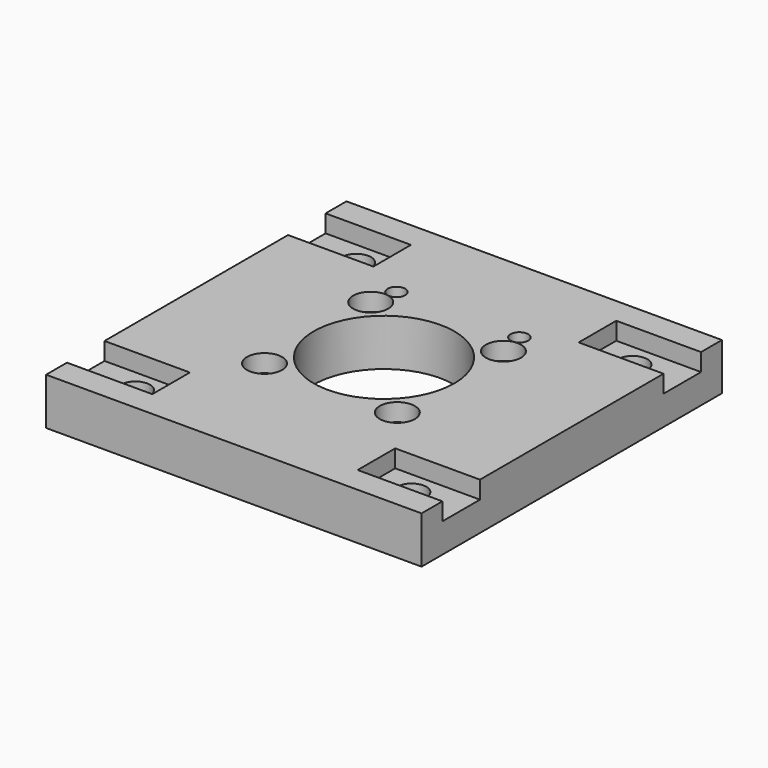
from build123d import *

# Parameters (mm, degrees)
CYLINDER776_R                = 1.5
CYLINDER776_DEPTH            = 20
CYLINDER774_R                = 1.5
CYLINDER774_DEPTH            = 20
COMPOUND536_ROLL_ANGLE       = 90
COMPOUND536_PLACEMENT_ANGLE  = 90
BOX640_W                     = 16
BOX640_H                     = 8
BOX640_DEPTH                 = 3
BOX639_W                     = 16
BOX639_H                     = 8
BOX639_DEPTH                 = 3
BOX636_W                     = 16
BOX636_H                     = 8
BOX636_DEPTH                 = 3
BOX637_W                     = 16
BOX637_H                     = 8
BOX637_DEPTH                 = 3
CYLINDER1600_R               = 12
CYLINDER1600_DEPTH           = 20
CYLINDER1598_R               = 5
CYLINDER1598_DEPTH           = 4
CYLINDER1605_R               = 5
CYLINDER1605_DEPTH           = 4
CYLINDER1612_R               = 5
CYLINDER1612_DEPTH           = 4
CYLINDER1610_R               = 5
CYLINDER1610_DEPTH           = 4
CYLINDER1604_R               = 2.5
CYLINDER1604_DEPTH           = 20
CYLINDER1608_R               = 2.5
CYLINDER1608_DEPTH           = 20
CYLINDER1607_R               = 2.5
CYLINDER1607_DEPTH           = 20
CYLINDER1602_R               = 2.5
CYLINDER1602_DEPTH           = 20
CYLINDER1609_R               = 3
CYLINDER1609_DEPTH           = 3
CYLINDER1609_PLACEMENT_ANGLE = 22.5
CYLINDER1601_R               = 3
CYLINDER1601_DEPTH           = 3
CYLINDER1601_PLACEMENT_ANGLE = 67.5
CYLINDER1606_R               = 3
CYLINDER1606_DEPTH           = 3
CYLINDER1606_PLACEMENT_ANGLE = 202.5
CYLINDER1611_R               = 3
CYLINDER1611_DEPTH           = 3
CYLINDER1611_PLACEMENT_ANGLE = 112.5
COMPOUND801_PLACEMENT_ANGLE  = 45
CYLINDER1603_R               = 1.5
CYLINDER1603_DEPTH           = 30
CYLINDER1603_PLACEMENT_ANGLE = 22.5
CYLINDER1613_R               = 1.5
CYLINDER1613_DEPTH           = 30
CYLINDER1613_PLACEMENT_ANGLE = 67.5
CYLINDER1614_R               = 1.5
CYLINDER1614_DEPTH           = 30
CYLINDER1614_PLACEMENT_ANGLE = 202.5
CYLINDER1599_R               = 1.5
CYLINDER1599_DEPTH           = 30
CYLINDER1599_PLACEMENT_ANGLE = 112.5
COMPOUND802_PLACEMENT_ANGLE  = 45
BOX638_W                     = 64
BOX638_H                     = 64
BOX638_DEPTH                 = 8


with BuildPart() as obj1:
    # Cylinder776 → Cylinder776 (new body)
    with BuildSketch(Plane(origin=(15.75, 114, 59.48), x_dir=(-1, 0, 0), z_dir=(0, 1, 0))):
        Circle(CYLINDER776_R)
    extrude(amount=CYLINDER776_DEPTH)


with BuildPart() as compound536:
    # Cylinder774 → Cylinder774 (new body)
    with BuildSketch(Plane(origin=(15.75, 114, 38.52), x_dir=(-1, 0, 0), z_dir=(0, 1, 0))):
        Circle(CYLINDER774_R)
    extrude(amount=CYLINDER774_DEPTH)

    # Compound536: union obj1
    add(obj1.part)


with BuildPart() as compound536_1:
    # Compound536 roll: moved
    add(compound536.part.rotate(Axis((0, 0, 0), (1, 0, 0)), COMPOUND536_ROLL_ANGLE))


with BuildPart() as compound536_2:
    # Compound536 placement: moved
    add(compound536_1.part.moved(Location((-49, 0, -96))).rotate(Axis((-49, 0, -96), (0, 0, 1)), COMPOUND536_PLACEMENT_ANGLE))


with BuildPart() as krychle640:
    # Box640 → Box640 (new body)
    with BuildSketch(Plane(origin=(17.55, -27.55, 31), x_dir=(1, 0, 0), z_dir=(0, 0, 1))):
        with Locations((8, 4)):
            Rectangle(BOX640_W, BOX640_H)
    extrude(amount=BOX640_DEPTH)


with BuildPart() as krychle639:
    # Box639 → Box639 (new body)
    with BuildSketch(Plane(origin=(-33.45, 19.55, 31), x_dir=(1, 0, 0), z_dir=(0, 0, 1))):
        with Locations((8, 4)):
            Rectangle(BOX639_W, BOX639_H)
    extrude(amount=BOX639_DEPTH)


with BuildPart() as krychle636:
    # Box636 → Box636 (new body)
    with BuildSketch(Plane(origin=(-33.45, -27.55, 31), x_dir=(1, 0, 0), z_dir=(0, 0, 1))):
        with Locations((8, 4)):
            Rectangle(BOX636_W, BOX636_H)
    extrude(amount=BOX636_DEPTH)


with BuildPart() as compound800:
    # Box637 → Box637 (new body)
    with BuildSketch(Plane(origin=(17.55, 19.55, 31), x_dir=(1, 0, 0), z_dir=(0, 0, 1))):
        with Locations((8, 4)):
            Rectangle(BOX637_W, BOX637_H)
    extrude(amount=BOX637_DEPTH)

    # Compound800: union Krychle640, Krychle639, Krychle636
    add(krychle640.part)
    add(krychle639.part)
    add(krychle636.part)


with BuildPart() as obj2:
    # Cylinder1600 → Cylinder1600 (new body)
    with BuildSketch(Plane.XY.offset(15)):
        Circle(CYLINDER1600_R)
    extrude(amount=CYLINDER1600_DEPTH)


with BuildPart() as obj3:
    # Cylinder1598 → Cylinder1598 (new body)
    with BuildSketch(Plane(origin=(23.55, 23.55, 26), x_dir=(1, 0, 0), z_dir=(0, 0, 1))):
        Circle(CYLINDER1598_R)
    extrude(amount=CYLINDER1598_DEPTH)


with BuildPart() as obj4:
    # Cylinder1605 → Cylinder1605 (new body)
    with BuildSketch(Plane(origin=(23.55, -23.55, 26), x_dir=(1, 0, 0), z_dir=(0, 0, 1))):
        Circle(CYLINDER1605_R)
    extrude(amount=CYLINDER1605_DEPTH)


with BuildPart() as obj5:
    # Cylinder1612 → Cylinder1612 (new body)
    with BuildSketch(Plane(origin=(-23.55, 23.55, 26), x_dir=(1, 0, 0), z_dir=(0, 0, 1))):
        Circle(CYLINDER1612_R)
    extrude(amount=CYLINDER1612_DEPTH)


with BuildPart() as compound799:
    # Cylinder1610 → Cylinder1610 (new body)
    with BuildSketch(Plane(origin=(-23.55, -23.55, 26), x_dir=(1, 0, 0), z_dir=(0, 0, 1))):
        Circle(CYLINDER1610_R)
    extrude(amount=CYLINDER1610_DEPTH)

    # Compound799: union obj3, obj4, obj5
    add(obj3.part)
    add(obj4.part)
    add(obj5.part)


with BuildPart() as compound799_1:
    # Compound799 placement: moved
    add(compound799.part.moved(Location((0, 0, -50))))


with BuildPart() as obj6:
    # Cylinder1604 → Cylinder1604 (new body)
    with BuildSketch(Plane(origin=(-23.55, 23.55, 20), x_dir=(1, 0, 0), z_dir=(0, 0, 1))):
        Circle(CYLINDER1604_R)
    extrude(amount=CYLINDER1604_DEPTH)


with BuildPart() as obj7:
    # Cylinder1608 → Cylinder1608 (new body)
    with BuildSketch(Plane(origin=(-23.55, -23.55, 20), x_dir=(1, 0, 0), z_dir=(0, 0, 1))):
        Circle(CYLINDER1608_R)
    extrude(amount=CYLINDER1608_DEPTH)


with BuildPart() as obj8:
    # Cylinder1607 → Cylinder1607 (new body)
    with BuildSketch(Plane(origin=(23.55, -23.55, 20), x_dir=(1, 0, 0), z_dir=(0, 0, 1))):
        Circle(CYLINDER1607_R)
    extrude(amount=CYLINDER1607_DEPTH)


with BuildPart() as compound798:
    # Cylinder1602 → Cylinder1602 (new body)
    with BuildSketch(Plane(origin=(23.55, 23.55, 20), x_dir=(1, 0, 0), z_dir=(0, 0, 1))):
        Circle(CYLINDER1602_R)
    extrude(amount=CYLINDER1602_DEPTH)

    # Compound798: union obj6, obj7, obj8
    add(obj6.part)
    add(obj7.part)
    add(obj8.part)


with BuildPart() as obj9:
    # Cylinder1609 → Cylinder1609 (new body)
    with BuildSketch(Plane.XY):
        Circle(CYLINDER1609_R)
    extrude(amount=CYLINDER1609_DEPTH)


with BuildPart() as obj9_1:
    # Cylinder1609 placement: moved
    add(obj9.part.moved(Location((-16, 0, 2))).rotate(Axis((-16, 0, 2), (0, 0, 1)), CYLINDER1609_PLACEMENT_ANGLE))


with BuildPart() as obj10:
    # Cylinder1601 → Cylinder1601 (new body)
    with BuildSketch(Plane.XY):
        Circle(CYLINDER1601_R)
    extrude(amount=CYLINDER1601_DEPTH)


with BuildPart() as obj10_1:
    # Cylinder1601 placement: moved
    add(obj10.part.moved(Location((0, 16, 2))).rotate(Axis((0, 16, 2), (0, 0, -1)), CYLINDER1601_PLACEMENT_ANGLE))


with BuildPart() as obj11:
    # Cylinder1606 → Cylinder1606 (new body)
    with BuildSketch(Plane.XY):
        Circle(CYLINDER1606_R)
    extrude(amount=CYLINDER1606_DEPTH)


with BuildPart() as obj11_1:
    # Cylinder1606 placement: moved
    add(obj11.part.moved(Location((16, 0, 2))).rotate(Axis((16, 0, 2), (0, 0, 1)), CYLINDER1606_PLACEMENT_ANGLE))


with BuildPart() as compound801:
    # Cylinder1611 → Cylinder1611 (new body)
    with BuildSketch(Plane.XY):
        Circle(CYLINDER1611_R)
    extrude(amount=CYLINDER1611_DEPTH)


with BuildPart() as compound801_1:
    # Cylinder1611 placement: moved
    add(compound801.part.moved(Location((0, -16, 2))).rotate(Axis((0, -16, 2), (0, 0, 1)), CYLINDER1611_PLACEMENT_ANGLE))

    # Compound801: union obj9, obj10, obj11
    add(obj9_1.part)
    add(obj10_1.part)
    add(obj11_1.part)


with BuildPart() as compound801_2:
    # Compound801 placement: moved
    add(compound801_1.part.moved(Location((0, 0, 29))).rotate(Axis((0, 0, 29), (0, 0, 1)), COMPOUND801_PLACEMENT_ANGLE))


with BuildPart() as obj12:
    # Cylinder1603 → Cylinder1603 (new body)
    with BuildSketch(Plane.XY):
        Circle(CYLINDER1603_R)
    extrude(amount=CYLINDER1603_DEPTH)


with BuildPart() as obj12_1:
    # Cylinder1603 placement: moved
    add(obj12.part.moved(Location((-16, 0, 2))).rotate(Axis((-16, 0, 2), (0, 0, 1)), CYLINDER1603_PLACEMENT_ANGLE))


with BuildPart() as obj13:
    # Cylinder1613 → Cylinder1613 (new body)
    with BuildSketch(Plane.XY):
        Circle(CYLINDER1613_R)
    extrude(amount=CYLINDER1613_DEPTH)


with BuildPart() as obj13_1:
    # Cylinder1613 placement: moved
    add(obj13.part.moved(Location((0, 16, 2))).rotate(Axis((0, 16, 2), (0, 0, -1)), CYLINDER1613_PLACEMENT_ANGLE))


with BuildPart() as obj14:
    # Cylinder1614 → Cylinder1614 (new body)
    with BuildSketch(Plane.XY):
        Circle(CYLINDER1614_R)
    extrude(amount=CYLINDER1614_DEPTH)


with BuildPart() as obj14_1:
    # Cylinder1614 placement: moved
    add(obj14.part.moved(Location((16, 0, 2))).rotate(Axis((16, 0, 2), (0, 0, 1)), CYLINDER1614_PLACEMENT_ANGLE))


with BuildPart() as compound802:
    # Cylinder1599 → Cylinder1599 (new body)
    with BuildSketch(Plane.XY):
        Circle(CYLINDER1599_R)
    extrude(amount=CYLINDER1599_DEPTH)


with BuildPart() as compound802_1:
    # Cylinder1599 placement: moved
    add(compound802.part.moved(Location((0, -16, 2))).rotate(Axis((0, -16, 2), (0, 0, 1)), CYLINDER1599_PLACEMENT_ANGLE))

    # Compound802: union obj12, obj13, obj14
    add(obj12_1.part)
    add(obj13_1.part)
    add(obj14_1.part)


with BuildPart() as compound802_2:
    # Compound802 placement: moved
    add(compound802_1.part.moved(Location((0, 0, 14))).rotate(Axis((0, 0, 14), (0, 0, 1)), COMPOUND802_PLACEMENT_ANGLE))


with BuildPart() as cut179:
    # Box638 → Box638 (new body)
    with BuildSketch(Plane(origin=(-32, -32, 26), x_dir=(1, 0, 0), z_dir=(0, 0, 1))):
        with Locations((32, 32)):
            Rectangle(BOX638_W, BOX638_H)
    extrude(amount=BOX638_DEPTH)

    # Cut173: cut Compound802
    add(compound802_2.part, mode=Mode.SUBTRACT)

    # Cut174: cut Compound801
    add(compound801_2.part, mode=Mode.SUBTRACT)

    # Cut177: cut Compound798
    add(compound798.part, mode=Mode.SUBTRACT)

    # Cut175: cut Compound799
    add(compound799_1.part, mode=Mode.SUBTRACT)

    # Cut176: cut obj2
    add(obj2.part, mode=Mode.SUBTRACT)

    # Cut178: cut Compound800
    add(compound800.part, mode=Mode.SUBTRACT)

    # Cut179: cut Compound536
    add(compound536_2.part, mode=Mode.SUBTRACT)


solid = cut179.part
